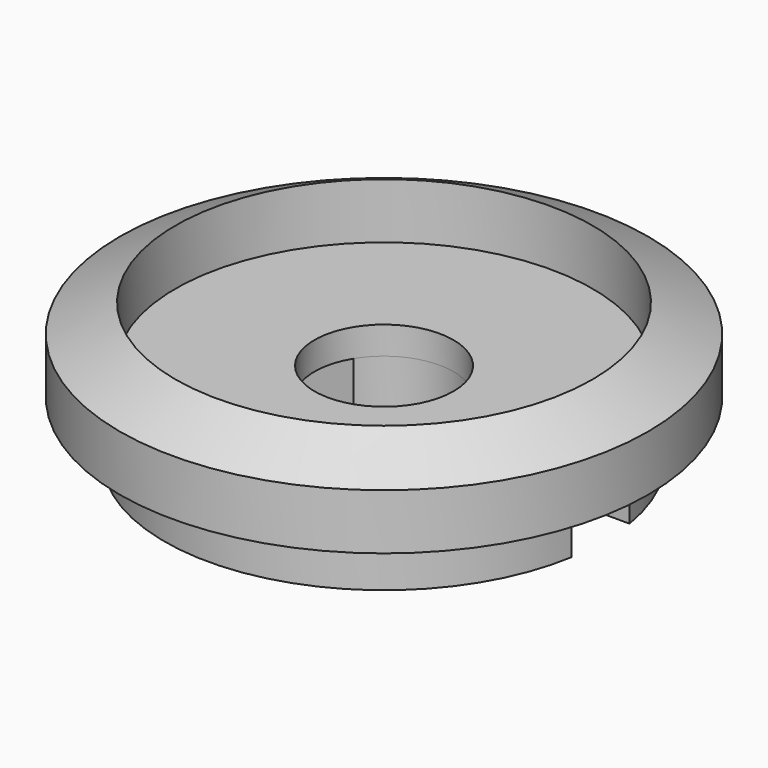
from build123d import *

# Parameters (mm, degrees)
F2_R     = 7.9
F3_DEPTH = 2
F5_DEPTH = 2
F6_R     = 7.5
F7_DEPTH = 2
F8_DEPTH = 1


with BuildPart() as f1:
    # F0 (on Front) → F1 (revolve)
    with BuildSketch(Plane.XZ):
        Polygon((2.5, 2.6889840401), (2.5, -0.3110159599), (9.5, -0.3110159599), (9.5, 1.6889840401), (7.5, 2.6889840401), align=None)
    revolve(axis=Axis((0, 0, 1.1889840401), (0, 0, -1)))

    # F2 (on face) → F3 (join)
    with BuildSketch(Plane(origin=(0, 0, -0.3110159599), x_dir=(1, 0, 0), z_dir=(0, 0, -1))):
        Circle(F2_R)
    extrude(amount=F3_DEPTH)

    # F4 (on face) → F5 (cut)
    with BuildSketch(Plane(origin=(0, 0, -2.3110159599), x_dir=(1, 0, 0), z_dir=(0, 0, -1))):
        with BuildLine():
            ThreePointArc((2.1354156504, -1.3), (2.4071289045, -0.675078097), (2.5, 0))
            ThreePointArc((2.5, 0), (2.4071289045, 0.675078097), (2.1354156504, 1.3))
            Line((2.1354156504, 1.3), (-2.1354156504, 1.3))
            ThreePointArc((-2.1354156504, 1.3), (-2.5, 0), (-2.1354156504, -1.3))
            Line((-2.1354156504, -1.3), (2.1354156504, -1.3))
        make_face()
        with BuildLine():
            ThreePointArc((2.1354156504, 1.3), (2.4071289045, 0.675078097), (2.5, 0))
            ThreePointArc((2.5, 0), (2.4071289045, -0.675078097), (2.1354156504, -1.3))
            Line((2.1354156504, -1.3), (8.2728397101, -1.3))
            Line((8.2728397101, -1.3), (8.2728397101, 1.3))
            Line((8.2728397101, 1.3), (2.1354156504, 1.3))
        make_face()
        with BuildLine():
            Line((-2.1354156504, 1.3), (2.1354156504, 1.3))
            ThreePointArc((2.1354156504, 1.3), (0, 2.5), (-2.1354156504, 1.3))
        make_face()
        with BuildLine():
            ThreePointArc((-2.1354156504, -1.3), (0, -2.5), (2.1354156504, -1.3))
            Line((2.1354156504, -1.3), (-2.1354156504, -1.3))
        make_face()
        with BuildLine():
            ThreePointArc((-2.1354156504, -1.3), (-2.5, 0), (-2.1354156504, 1.3))
            Line((-2.1354156504, 1.3), (-8.2728397101, 1.3))
            Line((-8.2728397101, 1.3), (-8.2728397101, -1.3))
            Line((-8.2728397101, -1.3), (-2.1354156504, -1.3))
        make_face()
    extrude(amount=-F5_DEPTH, mode=Mode.SUBTRACT)

    # F6 (on face) → F7 (cut)
    with BuildSketch(Plane.XY.offset(2.6889840401)):
        Circle(F6_R)
    extrude(amount=-F7_DEPTH, mode=Mode.SUBTRACT)

    # F6 (on face) → F8 (cut)
    with BuildSketch(Plane.XY.offset(2.6889840401)):
        Circle(F6_R)
    extrude(amount=-F8_DEPTH, mode=Mode.SUBTRACT)


solid = f1.part
